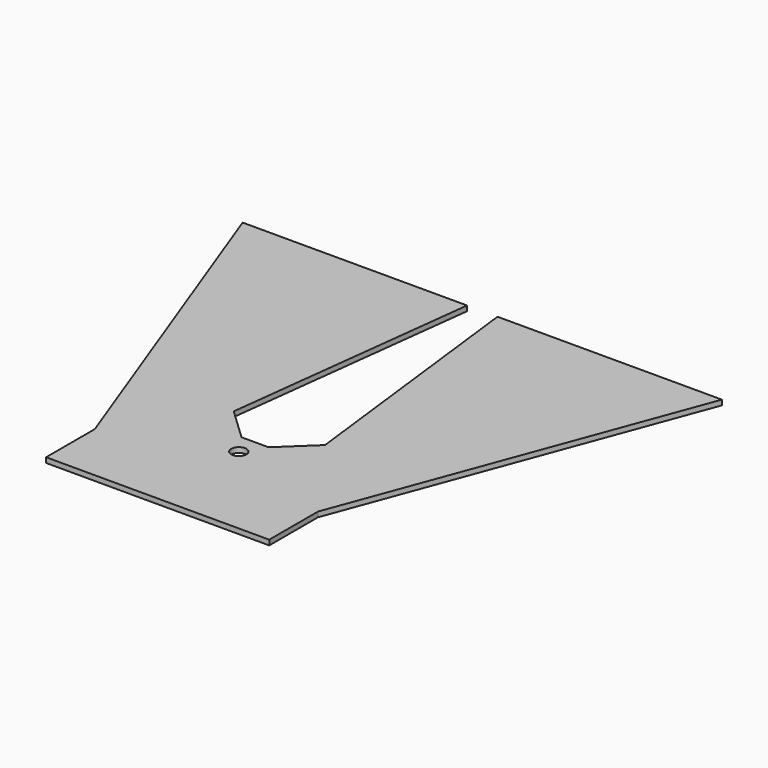
from build123d import *

# Parameters (mm, degrees)
F1_DEPTH = 6.35


with BuildPart() as f1:
    # F0 (on Top) → F1 (new body)
    with BuildSketch(Plane.XY):
        Polygon((-139.7, 0), (0, 0), (139.7, 0), (139.7, 76.2), (300.026565, 507.997021), (19.052757, 507.997021), (19.05, 507.997021), (19.446046, 504.696671), (57.15, 190.5), (16.933333, 152.4), (0, 152.4), (-16.932315, 152.4), (-57.15, 190.5), (-19.05, 507.998044), (-300.023808, 507.998044), (-139.7, 76.2), align=None)
        with BuildLine():
            ThreePointArc((9.525, 127), (6.735192, 120.264808), (0, 117.475))
            ThreePointArc((0, 117.475), (-6.735192, 133.735192), (9.525, 127))
        make_face(mode=Mode.SUBTRACT)
        Polygon((-139.7, 0), (0, 0), (139.7, 0), (139.7, 76.2), (300.026565, 507.997021), (19.052757, 507.997021), (19.05, 507.997021), (19.446046, 504.696671), (57.15, 190.5), (16.933333, 152.4), (0, 152.4), (-16.932315, 152.4), (-57.15, 190.5), (-19.05, 507.998044), (-300.023808, 507.998044), (-139.7, 76.2), align=None)
        with BuildLine():
            ThreePointArc((9.525, 127), (6.735192, 120.264808), (0, 117.475))
            ThreePointArc((0, 117.475), (-6.735192, 133.735192), (9.525, 127))
        make_face(mode=Mode.SUBTRACT)
    extrude(amount=F1_DEPTH)


solid = f1.part
